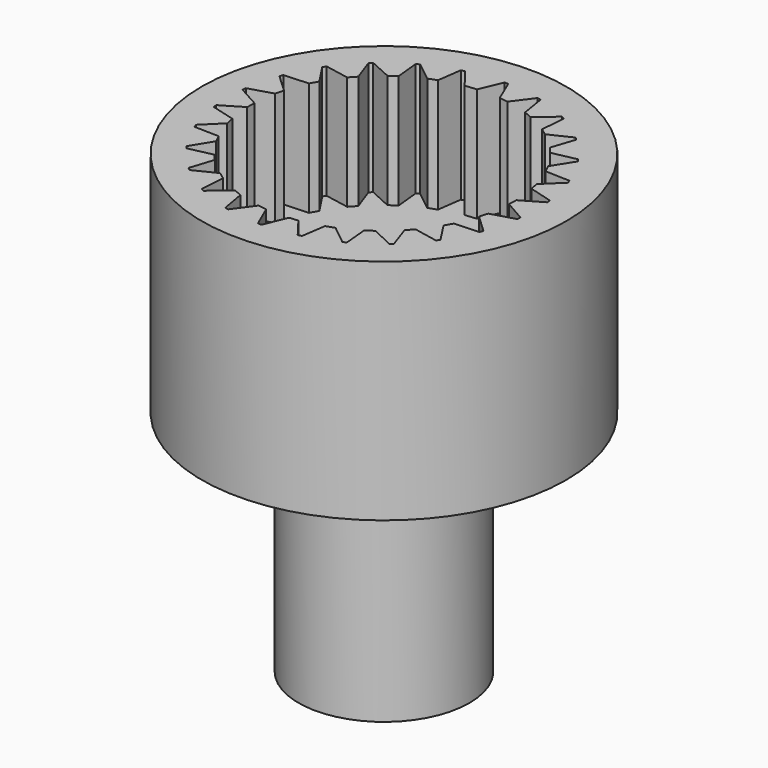
from build123d import *

# Parameters (mm, degrees)
F0_R     = 20.32
F1_DEPTH = 25.4
F3_DEPTH = 12.7
F4_R     = 9.525
F5_DEPTH = 25.4


with BuildPart() as f1:
    # F0 (on Top) → F1 (new body)
    with BuildSketch(Plane.XY):
        Circle(F0_R)
    extrude(amount=F1_DEPTH)

    # F2 (on face) → F3 (cut)
    with BuildSketch(Plane.XY.offset(25.4)):
        with BuildLine():
            Line((1.27, 14.549678), (0.2032, 17.06759))
            ThreePointArc((0.2032, 17.06759), (0, 17.0688), (-0.2032, 17.06759))
            Line((-0.2032, 17.06759), (-1.27, 14.549678))
            Line((-1.27, 14.549678), (-2.5488, 14.428136))
            Line((-2.5488, 14.428136), (-4.230933, 16.584145))
            ThreePointArc((-4.230933, 16.584145), (-4.427523, 16.532721), (-4.623486, 16.478961))
            Line((-4.623486, 16.478961), (-5.002252, 13.770736))
            Line((-5.002252, 13.770736), (-5.925394, 13.445678))
            Line((-5.925394, 13.445678), (-8.073251, 15.138207))
            ThreePointArc((-8.073251, 15.138207), (-8.2519, 15.041375), (-8.429382, 14.942423))
            Line((-8.429382, 14.942423), (-8.151213, 12.222024))
            Line((-8.151213, 12.222024), (-8.970171, 11.686149))
            Line((-8.970171, 11.686149), (-11.459754, 12.817486))
            ThreePointArc((-11.459754, 12.817486), (-11.610147, 12.680835), (-11.758903, 12.542404))
            Line((-11.758903, 12.542404), (-10.839857, 9.966884))
            Line((-10.839857, 9.966884), (-11.507351, 9.251129))
            Line((-11.507351, 9.251129), (-14.194932, 9.75596))
            ThreePointArc((-14.194932, 9.75596), (-14.308389, 9.58738), (-14.419831, 9.417461))
            Line((-14.419831, 9.417461), (-12.912966, 7.135509))
            Line((-12.912966, 7.135509), (-13.390461, 6.281195))
            Line((-13.390461, 6.281195), (-16.120882, 6.130376))
            ThreePointArc((-16.120882, 6.130376), (-16.190851, 5.939599), (-16.258545, 5.748002))
            Line((-16.258545, 5.748002), (-14.250855, 3.891358))
            Line((-14.250855, 3.891358), (-14.510784, 2.947806))
            Line((-14.510784, 2.947806), (-17.126414, 2.150044))
            ThreePointArc((-17.126414, 2.150044), (-17.148857, 1.948083), (-17.168895, 1.74587))
            Line((-17.168895, 1.74587), (-14.776286, 0.42172))
            Line((-14.776286, 0.42172), (-14.803644, -0.556597))
            Line((-14.803644, -0.556597), (-17.153479, -1.955247))
            ThreePointArc((-17.153479, -1.955247), (-17.1271, -2.156731), (-17.098324, -2.357887))
            Line((-17.098324, -2.357887), (-14.458926, -3.073097))
            Line((-14.458926, -3.073097), (-14.252132, -4.0297))
            Line((-14.252132, -4.0297), (-16.200513, -5.948491))
            ThreePointArc((-16.200513, -5.948491), (-16.126835, -6.137867), (-16.050907, -6.326352))
            Line((-16.050907, -6.326352), (-13.317096, -6.391332))
            Line((-13.317096, -6.391332), (-12.888089, -7.270995))
            Line((-12.888089, -7.270995), (-14.322533, -9.599153))
            ThreePointArc((-14.322533, -9.599153), (-14.205809, -9.765488), (-14.087113, -9.930421))
            Line((-14.087113, -9.930421), (-11.416715, -9.34142))
            Line((-11.416715, -9.34142), (-10.790263, -10.093358))
            Line((-10.790263, -10.093358), (-11.627957, -12.696475))
            ThreePointArc((-11.627957, -12.696475), (-11.474926, -12.830166), (-11.320314, -12.962025))
            Line((-11.320314, -12.962025), (-8.867496, -11.753047))
            Line((-8.867496, -11.753047), (-8.079764, -12.33385))
            Line((-8.079764, -12.33385), (-8.272347, -15.061644))
            ThreePointArc((-8.272347, -15.061644), (-8.091843, -15.154973), (-7.910242, -15.246146))
            Line((-7.910242, -15.246146), (-5.816608, -13.486986))
            Line((-5.816608, -13.486986), (-4.913073, -13.863124))
            Line((-4.913073, -13.863124), (-4.449427, -16.558115))
            ThreePointArc((-4.449427, -16.558115), (-4.251872, -16.605694), (-4.053764, -16.650917))
            Line((-4.053764, -16.650917), (-2.440183, -14.443135))
            Line((-2.440183, -14.443135), (-1.473008, -14.592893))
            Line((-1.473008, -14.592893), (-0.3799, -17.099496))
            ThreePointArc((-0.3799, -17.099496), (-0.176698, -17.098577), (0.026478, -17.09524))
            Line((0.026478, -17.09524), (1.066852, -14.566294))
            Line((1.066852, -14.566294), (2.041831, -14.481025))
            Line((2.041831, -14.481025), (3.701295, -16.654531))
            ThreePointArc((3.701295, -16.654531), (3.898411, -16.605168), (4.094927, -16.553463))
            Line((4.094927, -16.553463), (4.502032, -13.849353))
            Line((4.502032, -13.849353), (5.428527, -13.53398))
            Line((5.428527, -13.53398), (7.558543, -15.248908))
            ThreePointArc((7.558543, -15.248908), (7.738196, -15.153952), (7.916705, -15.056864))
            Line((7.916705, -15.056864), (7.667038, -12.333701))
            Line((7.667038, -12.333701), (8.491563, -11.806432))
            Line((8.491563, -11.806432), (10.969162, -12.963777))
            ThreePointArc((10.969162, -12.963777), (11.120978, -12.828709), (11.271176, -12.691842))
            Line((11.271176, -12.691842), (10.37915, -10.10684))
            Line((10.37915, -10.10684), (11.054103, -9.398114))
            Line((11.054103, -9.398114), (13.73625, -9.931061))
            ThreePointArc((13.73625, -9.931061), (13.851466, -9.763679), (13.964681, -9.594936))
            Line((13.964681, -9.594936), (12.481795, -7.297329))
            Line((12.481795, -7.297329), (12.96821, -6.448063))
            Line((12.96821, -6.448063), (15.700061, -6.325844))
            ThreePointArc((15.700061, -6.325844), (15.772024, -6.13581), (15.84172, -5.944933))
            Line((15.84172, -5.944933), (13.853583, -4.067366))
            Line((13.853583, -4.067366), (14.123378, -3.126588))
            Line((14.123378, -3.126588), (16.747219, -2.356259))
            ThreePointArc((16.747219, -2.356259), (16.771776, -2.154545), (16.793929, -1.952553))
            Line((16.793929, -1.952553), (14.415319, -0.603421))
            Line((14.415319, -0.603421), (14.452919, 0.374556))
            Line((14.452919, 0.374556), (16.817272, 1.748523))
            ThreePointArc((16.817272, 1.748523), (16.793004, 1.950272), (16.766336, 2.151718))
            Line((16.766336, 2.151718), (14.134573, 2.894528))
            Line((14.134573, 2.894528), (13.937808, 3.853244))
            Line((13.937808, 3.853244), (15.906174, 5.751527))
            ThreePointArc((15.906174, 5.751527), (15.834483, 5.941664), (15.760534, 6.130934))
            Line((15.760534, 6.130934), (13.027553, 6.224538))
            Line((13.027553, 6.224538), (12.607782, 7.108646))
            Line((12.607782, 7.108646), (14.066526, 9.421655))
            ThreePointArc((14.066526, 9.421655), (13.95155, 9.589202), (13.834588, 9.75537))
            Line((13.834588, 9.75537), (11.158169, 9.194365))
            Line((11.158169, 9.194365), (10.539626, 9.952822))
            Line((10.539626, 9.952822), (11.404533, 12.547024))
            ThreePointArc((11.404533, 12.547024), (11.25291, 12.68231), (11.099687, 12.815781))
            Line((11.099687, 12.815781), (8.634343, 11.632554))
            Line((8.634343, 11.632554), (7.852737, 12.221575))
            Line((7.852737, 12.221575), (8.073874, 14.947202))
            ThreePointArc((8.073874, 14.947202), (7.894358, 15.042416), (7.713721, 15.135486))
            Line((7.713721, 15.135486), (5.60178, 13.398347))
            Line((5.60178, 13.398347), (4.702234, 13.783926))
            Line((4.702234, 13.783926), (4.266835, 16.483624))
            ThreePointArc((4.266835, 16.483624), (4.069789, 16.533269), (3.872166, 16.580564))
            Line((3.872166, 16.580564), (2.235553, 14.389801))
            Line((2.235553, 14.389801), (1.27, 14.549678))
        make_face()
    extrude(amount=-F3_DEPTH, mode=Mode.SUBTRACT)

    # F4 (on face) → F5 (join)
    with BuildSketch(Plane(origin=(0, 0, 0), x_dir=(1, 0, 0), z_dir=(0, 0, -1))):
        Circle(F4_R)
    extrude(amount=F5_DEPTH)


solid = f1.part
